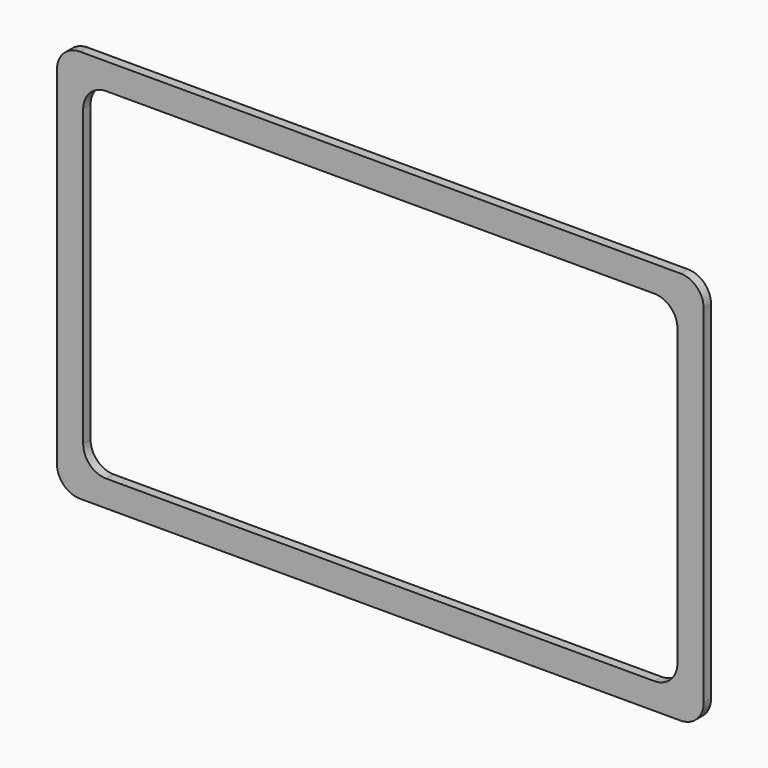
from build123d import *

# Parameters (mm, degrees)
F0_W     = 192.96
F0_H     = 110.76
F1_DEPTH = 3
F2_R     = 7.5


with BuildPart() as f1:
    # F0 (on Front) → F1 (new body)
    with BuildSketch(Plane.XZ):
        with BuildLine():
            ThreePointArc((105, 56.4), (102.803301, 61.703301), (97.5, 63.9))
            Line((97.5, 63.9), (-97.5, 63.9))
            ThreePointArc((-97.5, 63.9), (-102.803301, 61.703301), (-105, 56.4))
            Line((-105, 56.4), (-105, -56.4))
            ThreePointArc((-105, -56.4), (-102.803301, -61.703301), (-97.5, -63.9))
            Line((-97.5, -63.9), (97.5, -63.9))
            ThreePointArc((97.5, -63.9), (102.803301, -61.703301), (105, -56.4))
            Line((105, -56.4), (105, 56.4))
        make_face()
        Rectangle(F0_W, F0_H, mode=Mode.SUBTRACT)
    extrude(amount=F1_DEPTH)

    # F2
    f2_edges = [f1.edges().sort_by_distance(p)[0] for p in [
        (96.48, -1.5, 55.38),
        (-96.48, -1.5, 55.38),
        (-96.48, -1.5, -55.38),
        (96.48, -1.5, -55.38),
    ]]
    fillet(f2_edges, radius=F2_R)


solid = f1.part
